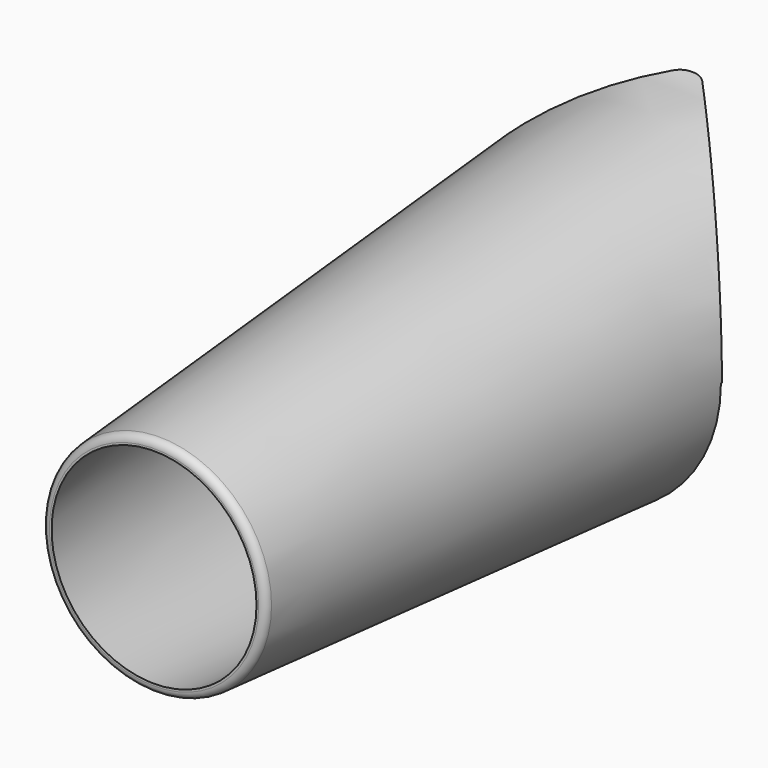
from build123d import *

# Parameters (mm, degrees)
F2_R     = 46
F0_R     = 31.5
F4_T     = -2.54
F6_DEPTH = 68.58
F7_W     = 43.7282323837
F7_H     = 56.1075247824
F8_DEPTH = 66.04
F9_R     = 5.08
F10_R    = 2.0974699773


with BuildPart() as f3:
    # F2 (on offset) → F3 section 0
    with BuildSketch(Plane.XZ.offset(-190)):
        Circle(F2_R)
    # F0 (on Front) → F3 section 1
    with BuildSketch(Plane.XZ):
        Circle(F0_R)
    loft()

    # F4
    f4_openings = [f3.faces().sort_by_distance(p)[0] for p in [
        (0, 0, 0),
        (0, 190, 0),
    ]]
    offset(amount=F4_T, openings=f4_openings, kind=Kind.INTERSECTION)

    # F5 (on Top) → F6 (cut)
    with BuildSketch(Plane.XY):
        Polygon((-50.4529035675, 192.8699612617), (-43.8499934971, 145.5444693565), (0, 192.8699612617), align=None)
        Polygon((49.8117071029, 192.8699612617), (0, 192.8699612617), (44.228361635, 145.5444693565), align=None)
    extrude(amount=F6_DEPTH, mode=Mode.SUBTRACT)

    # F7 (on Right) → F8 (cut, symmetric)
    with BuildSketch(Plane.YZ):
        with Locations((168.6937212944, -28.0537623912)):
            Rectangle(F7_W, F7_H)
    extrude(amount=F8_DEPTH, both=True, mode=Mode.SUBTRACT)

    # F9
    f9_edges = [f3.edges().sort_by_distance(p)[0] for p in [
        (-2.659197, 190, 44.647121),
        (2.682142, 190, 44.645748),
    ]]
    fillet(f9_edges, radius=F9_R)

    # F10
    f10_edges = [f3.edges().sort_by_distance(p)[0] for p in [
        (-31.5, 0, 0),
    ]]
    fillet(f10_edges, radius=F10_R)


solid = f3.part
